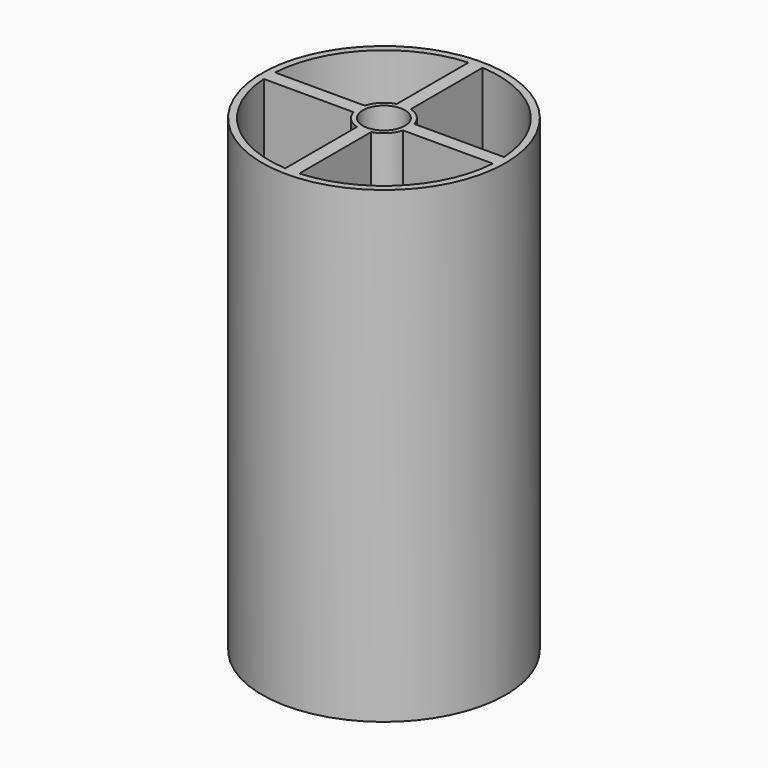
from build123d import *

# Parameters (mm, degrees)
F0_R     = 26
F0_R_2   = 4.5
F1_DEPTH = 100


with BuildPart() as f1:
    # F0 (on Top) → F1 (new body)
    with BuildSketch(Plane.XY):
        Circle(F0_R)
        with BuildLine():
            ThreePointArc((24.454039, 1.5), (24.488507, 0.750352), (24.5, 0))
            ThreePointArc((24.5, 0), (24.488507, -0.750352), (24.454039, -1.5))
            ThreePointArc((24.454039, -1.5), (17.324116, -17.324116), (1.5, -24.454039))
            ThreePointArc((1.5, -24.454039), (0.750352, -24.488507), (0, -24.5))
            ThreePointArc((0, -24.5), (-0.750352, -24.488507), (-1.5, -24.454039))
            ThreePointArc((-1.5, -24.454039), (-17.324116, -17.324116), (-24.454039, -1.5))
            ThreePointArc((-24.454039, -1.5), (-24.488507, -0.750352), (-24.5, 0))
            ThreePointArc((-24.5, 0), (-24.488507, 0.750352), (-24.454039, 1.5))
            ThreePointArc((-24.454039, 1.5), (-17.324116, 17.324116), (-1.5, 24.454039))
            ThreePointArc((-1.5, 24.454039), (-0.750352, 24.488507), (0, 24.5))
            ThreePointArc((0, 24.5), (0.750352, 24.488507), (1.5, 24.454039))
            ThreePointArc((1.5, 24.454039), (17.324116, 17.324116), (24.454039, 1.5))
        make_face(mode=Mode.SUBTRACT)
        with BuildLine():
            Line((0, 5.5), (0, 24.5))
            ThreePointArc((0, 24.5), (-0.750352, 24.488507), (-1.5, 24.454039))
            Line((-1.5, 24.454039), (-1.5, 5.291503))
            ThreePointArc((-1.5, 5.291503), (-0.757211, 5.447626), (0, 5.5))
        make_face()
        with BuildLine():
            Line((1.5, 5.291503), (1.5, 24.454039))
            ThreePointArc((1.5, 24.454039), (0.750352, 24.488507), (0, 24.5))
            Line((0, 24.5), (0, 5.5))
            ThreePointArc((0, 5.5), (0.757211, 5.447626), (1.5, 5.291503))
        make_face()
        with BuildLine():
            ThreePointArc((5.291503, -1.5), (5.447626, -0.757211), (5.5, 0))
            ThreePointArc((5.5, 0), (5.447626, 0.757211), (5.291503, 1.5))
            ThreePointArc((5.291503, 1.5), (3.889087, 3.889087), (1.5, 5.291503))
            ThreePointArc((1.5, 5.291503), (0.757211, 5.447626), (0, 5.5))
            ThreePointArc((0, 5.5), (-0.757211, 5.447626), (-1.5, 5.291503))
            ThreePointArc((-1.5, 5.291503), (-3.889087, 3.889087), (-5.291503, 1.5))
            ThreePointArc((-5.291503, 1.5), (-5.447626, 0.757211), (-5.5, 0))
            ThreePointArc((-5.5, 0), (-5.447626, -0.757211), (-5.291503, -1.5))
            ThreePointArc((-5.291503, -1.5), (-3.889087, -3.889087), (-1.5, -5.291503))
            ThreePointArc((-1.5, -5.291503), (-0.757211, -5.447626), (0, -5.5))
            ThreePointArc((0, -5.5), (0.757211, -5.447626), (1.5, -5.291503))
            ThreePointArc((1.5, -5.291503), (3.889087, -3.889087), (5.291503, -1.5))
        make_face()
        Circle(F0_R_2, mode=Mode.SUBTRACT)
        with BuildLine():
            Line((5.5, 0), (24.5, 0))
            ThreePointArc((24.5, 0), (24.488507, 0.750352), (24.454039, 1.5))
            Line((24.454039, 1.5), (5.291503, 1.5))
            ThreePointArc((5.291503, 1.5), (5.447626, 0.757211), (5.5, 0))
        make_face()
        with BuildLine():
            ThreePointArc((24.454039, -1.5), (24.488507, -0.750352), (24.5, 0))
            Line((24.5, 0), (5.5, 0))
            ThreePointArc((5.5, 0), (5.447626, -0.757211), (5.291503, -1.5))
            Line((5.291503, -1.5), (24.454039, -1.5))
        make_face()
        with BuildLine():
            ThreePointArc((-1.5, -24.454039), (-0.750352, -24.488507), (0, -24.5))
            Line((0, -24.5), (0, -5.5))
            ThreePointArc((0, -5.5), (-0.757211, -5.447626), (-1.5, -5.291503))
            Line((-1.5, -5.291503), (-1.5, -24.454039))
        make_face()
        with BuildLine():
            Line((-5.291503, 1.5), (-24.454039, 1.5))
            ThreePointArc((-24.454039, 1.5), (-24.488507, 0.750352), (-24.5, 0))
            Line((-24.5, 0), (-5.5, 0))
            ThreePointArc((-5.5, 0), (-5.447626, 0.757211), (-5.291503, 1.5))
        make_face()
        with BuildLine():
            ThreePointArc((-24.5, 0), (-24.488507, -0.750352), (-24.454039, -1.5))
            Line((-24.454039, -1.5), (-5.291503, -1.5))
            ThreePointArc((-5.291503, -1.5), (-5.447626, -0.757211), (-5.5, 0))
            Line((-5.5, 0), (-24.5, 0))
        make_face()
        with BuildLine():
            ThreePointArc((0, -24.5), (0.750352, -24.488507), (1.5, -24.454039))
            Line((1.5, -24.454039), (1.5, -5.291503))
            ThreePointArc((1.5, -5.291503), (0.757211, -5.447626), (0, -5.5))
            Line((0, -5.5), (0, -24.5))
        make_face()
    extrude(amount=F1_DEPTH)


solid = f1.part
